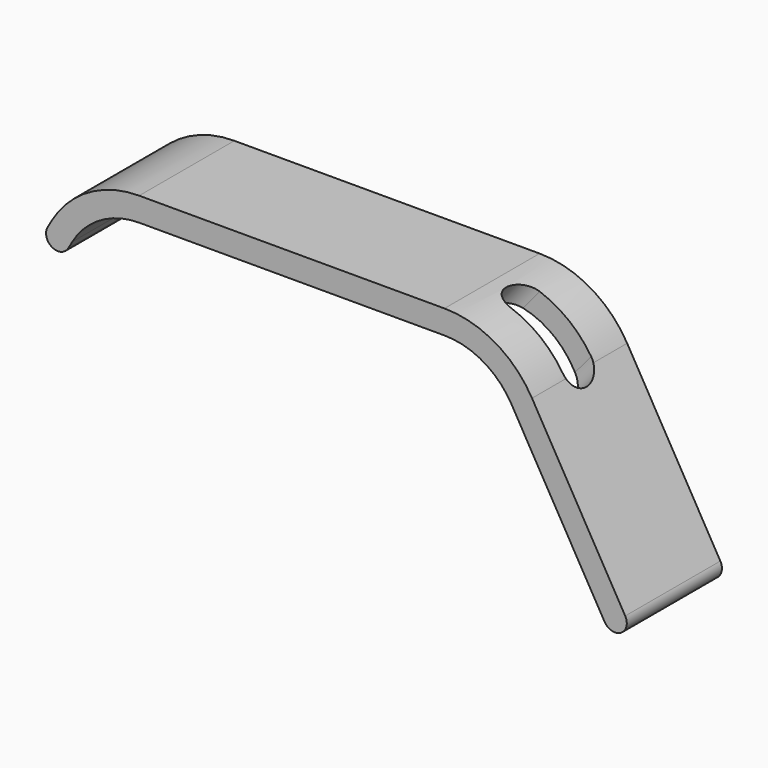
from build123d import *

# Parameters (mm, degrees)
F1_DEPTH = 10
F4_DEPTH = 25


with BuildPart() as f1:
    # F0 (on Front) → F1 (new body, symmetric)
    with BuildSketch(Plane.XZ):
        with BuildLine():
            Line((21.7320508076, -33.6410161514), (6.0621778265, -6.5))
            ThreePointArc((6.0621778265, -6.5), (-0.1602540378, -0.2775681357), (-8.6602540378, 2))
            Line((-8.6602540378, 2), (-60, 2))
            ThreePointArc((-60, 2), (-68.5, -0.2775681357), (-74.7224318643, -6.5))
            Line((-74.7224318643, -6.5), (-75.3923048454, -7.6602540378))
            ThreePointArc((-75.3923048454, -7.6602540378), (-74.6602540378, -10.3923048454), (-71.9282032303, -9.6602540378))
            Line((-71.9282032303, -9.6602540378), (-71.2583302492, -8.5))
            ThreePointArc((-71.2583302492, -8.5), (-66.5, -3.7416697508), (-60, -2))
            Line((-60, -2), (-8.6602540378, -2))
            ThreePointArc((-8.6602540378, -2), (-2.1602540378, -3.7416697508), (2.5980762114, -8.5))
            Line((2.5980762114, -8.5), (18.2679491924, -35.6410161514))
            ThreePointArc((18.2679491924, -35.6410161514), (21, -36.3730669589), (21.7320508076, -33.6410161514))
        make_face()
    extrude(amount=F1_DEPTH, both=True)

    # F3 (on face) → F4 (cut, symmetric)
    with BuildSketch(Plane(origin=(-0.6958793502, 0, -0.8293167156), x_dir=(0.7660444431, 0, -0.6427876097), z_dir=(0.6427876097, 0, 0.7660444431))):
        with BuildLine():
            Line((-3, -3), (0, -3))
            ThreePointArc((0, -3), (-3, 0), (0, 3))
            Line((0, 3), (-3, 3))
            ThreePointArc((-3, 3), (-6, 0), (-3, -3))
        make_face()
        with BuildLine():
            ThreePointArc((0, 3), (3, 0), (0, -3))
            Line((0, -3), (8, -3))
            ThreePointArc((8, -3), (11, 0), (8, 3))
            Line((8, 3), (0, 3))
        make_face()
        with BuildLine():
            ThreePointArc((0, 3), (-3, 0), (0, -3))
            ThreePointArc((0, -3), (3, 0), (0, 3))
        make_face()
    extrude(amount=F4_DEPTH, both=True, mode=Mode.SUBTRACT)


solid = f1.part
